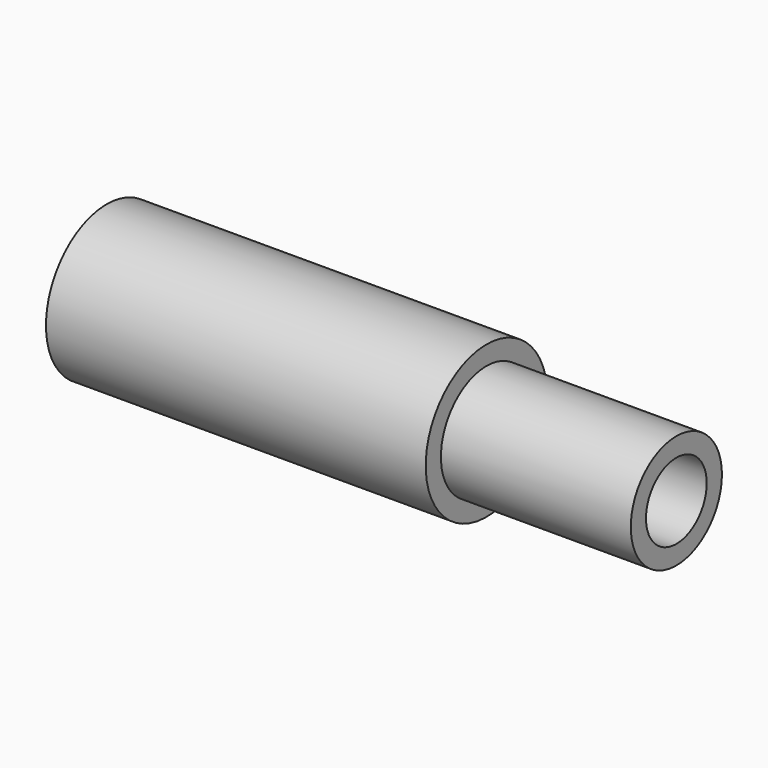
from build123d import *

# Parameters (mm, degrees)
F0_R     = 20
F0_R_2   = 10
F1_DEPTH = 150
F2_R     = 20
F2_R_2   = 15
F3_DEPTH = 50


with BuildPart() as f1:
    # F0 (on Right) → F1 (new body)
    with BuildSketch(Plane.YZ):
        Circle(F0_R)
        Circle(F0_R_2, mode=Mode.SUBTRACT)
    extrude(amount=-F1_DEPTH)

    # F2 (on face) → F3 (cut)
    with BuildSketch(Plane.YZ):
        Circle(F2_R)
        Circle(F2_R_2, mode=Mode.SUBTRACT)
    extrude(amount=-F3_DEPTH, mode=Mode.SUBTRACT)


solid = f1.part
